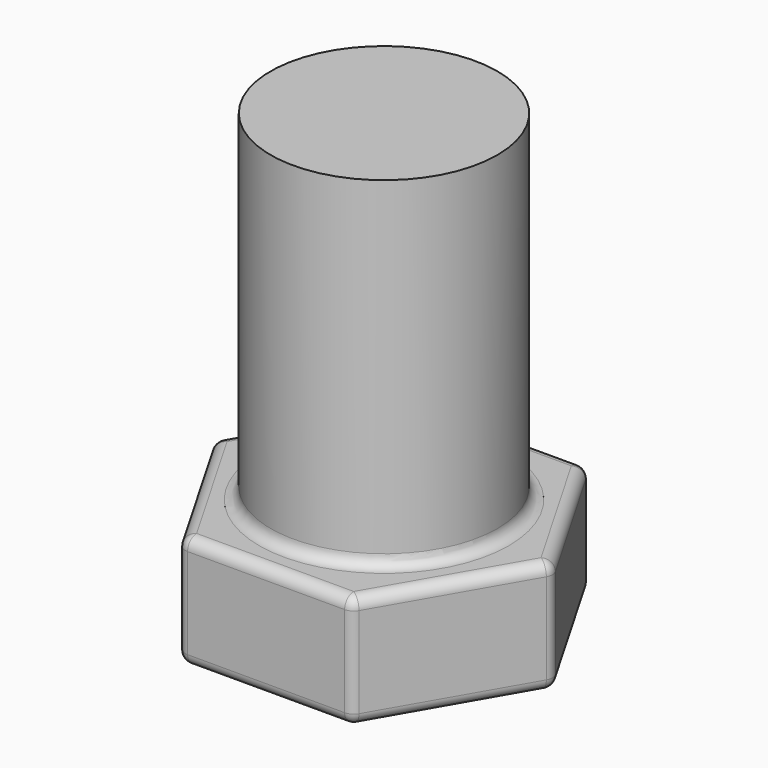
from build123d import *

# Parameters (mm, degrees)
SKETCH_R     = 10
PAD_DEPTH    = 40
PAD001_DEPTH = 10
FILLET_R     = 1


with BuildPart() as part:
    # Sketch → Pad (new body)
    with BuildSketch(Plane.XY):
        Circle(SKETCH_R)
    extrude(amount=PAD_DEPTH)

    # Sketch001 → Pad001 (join)
    with BuildSketch(Plane.XY):
        Polygon((15, 0), (7.5, 12.990381), (-7.5, 12.990381), (-15, 0), (-7.5, -12.990381), (7.5, -12.990381), align=None)
    extrude(amount=PAD001_DEPTH)

    # Fillet
    fillet_edges = [part.edges().sort_by_distance(p)[0] for p in [
        (-7.5, -12.990381, 5),
        (7.5, -12.990381, 5),
        (0, -12.990381, 0),
        (0, -12.990381, 10),
        (15, 0, 5),
        (11.25, -6.495191, 0),
        (11.25, -6.495191, 10),
        (11.25, 6.495191, 10),
        (0, 12.990381, 10),
        (-11.25, 6.495191, 10),
        (-11.25, -6.495191, 10),
        (-10, 0, 10),
        (-15, 0, 5),
        (-11.25, -6.495191, 0),
        (-7.5, 12.990381, 5),
        (-11.25, 6.495191, 0),
        (11.25, 6.495191, 0),
        (0, 12.990381, 0),
        (7.5, 12.990381, 5),
    ]]
    fillet(fillet_edges, radius=FILLET_R)


solid = part.part
